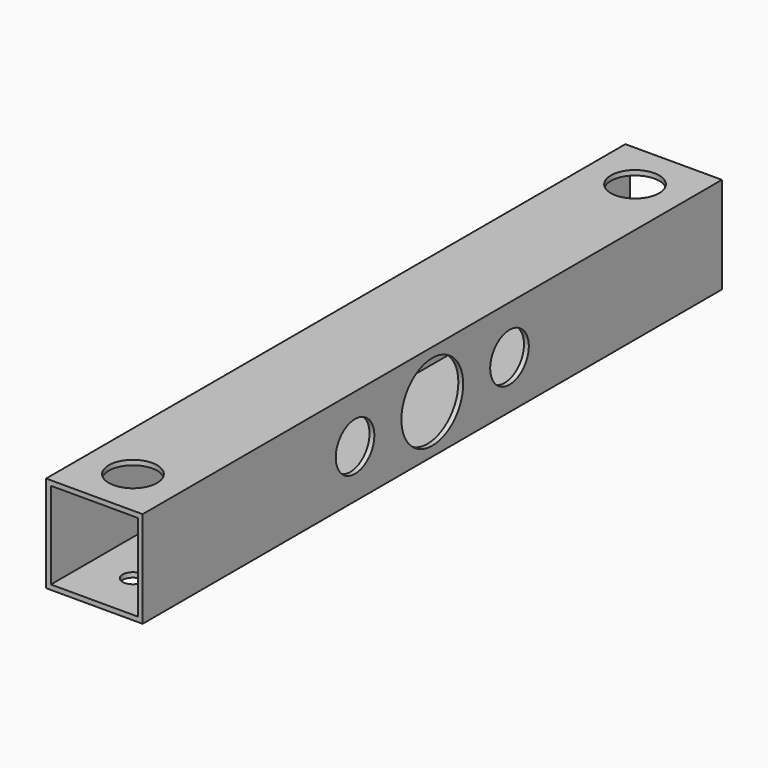
from build123d import *

# Parameters (mm, degrees)
F0_W      = 40
F0_H      = 40
F0_W_2    = 36
F0_H_2    = 36
F1_DEPTH  = 300
F2_R      = 16
F2_R_2    = 10
F3_DEPTH  = 25
F4_R      = 16
F4_R_2    = 4.25
F5_DEPTH  = 25
F6_R      = 10
F7_DEPTH  = 25
F8_R      = 4.25
F9_DEPTH  = 25
F10_R     = 2
F11_DEPTH = 25


with BuildPart() as f1:
    # F0 (on Front) → F1 (new body)
    with BuildSketch(Plane.XZ):
        with Locations((20, 20)):
            Rectangle(F0_W, F0_H)
        with Locations((20, 20)):
            Rectangle(F0_W_2, F0_H_2, mode=Mode.SUBTRACT)
    extrude(amount=F1_DEPTH)

    # F2 (on face) → F3 (cut)
    with BuildSketch(Plane.YZ.offset(40)):
        with Locations((-150, 20)):
            Circle(F2_R)
        with Locations((-190, 20)):
            Circle(F2_R_2)
        with Locations((-110, 20)):
            Circle(F2_R_2)
    extrude(amount=-F3_DEPTH, mode=Mode.SUBTRACT)

    # F4 (on face) → F5 (cut)
    with BuildSketch(Plane.YZ.offset(2)):
        with Locations((-150, 20)):
            Circle(F4_R)
        with Locations((-190, 20)):
            Circle(F4_R_2)
        with Locations((-110, 20)):
            Circle(F4_R_2)
    extrude(amount=-F5_DEPTH, mode=Mode.SUBTRACT)

    # F6 (on face) → F7 (cut)
    with BuildSketch(Plane.XY.offset(40)):
        with Locations((20, -280)):
            Circle(F6_R)
        with Locations((20, -20)):
            Circle(F6_R)
    extrude(amount=-F7_DEPTH, mode=Mode.SUBTRACT)

    # F8 (on face) → F9 (cut)
    with BuildSketch(Plane.XY.offset(2)):
        with Locations((20, -280)):
            Circle(F8_R)
        with Locations((20, -20)):
            Circle(F8_R)
    extrude(amount=-F9_DEPTH, mode=Mode.SUBTRACT)

    # F10 (on face) → F11 (cut)
    with BuildSketch(Plane(origin=(0, 0, 0), x_dir=(0, -1, 0), z_dir=(-1, 0, 0))):
        with Locations((128, 20)):
            Circle(F10_R)
        with Locations((172, 20)):
            Circle(F10_R)
    extrude(amount=-F11_DEPTH, mode=Mode.SUBTRACT)


solid = f1.part
